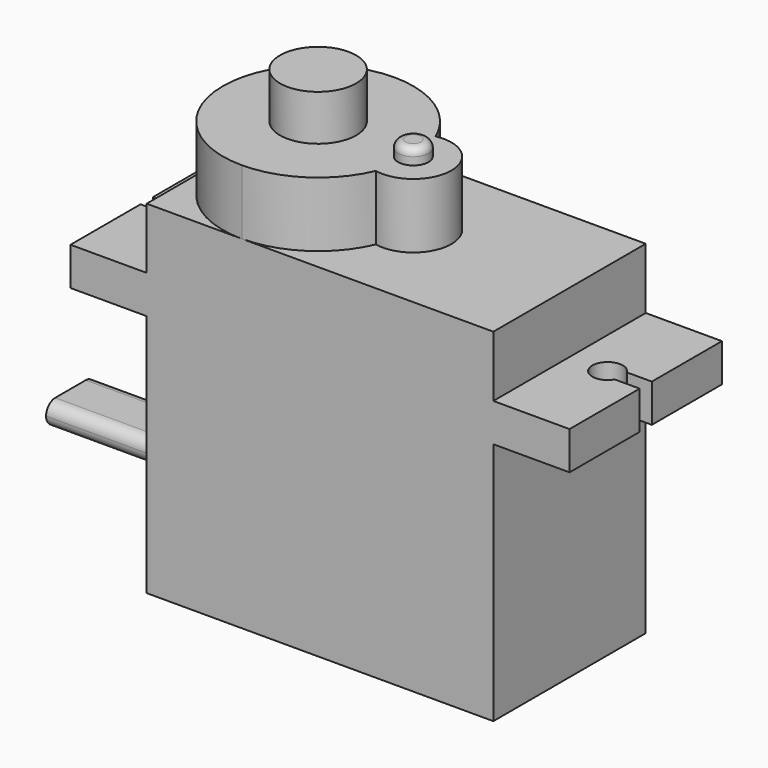
from build123d import *

# Parameters (mm, degrees)
F0_W      = 22.75
F0_H      = 12.5
F1_DEPTH  = 22.5
F3_W      = 5
F3_H      = 12.5
F4_DEPTH  = 2.5
F6_DEPTH  = 2.5
F8_DEPTH  = 4.25
F9_R      = 1
F10_DEPTH = 1
F11_R     = 2.5
F12_DEPTH = 3
F14_DEPTH = 10
F15_R     = 0.5


with BuildPart() as f1:
    # F0 (on Top) → F1 (new body)
    with BuildSketch(Plane.XY):
        Rectangle(F0_W, F0_H)
    extrude(amount=F1_DEPTH)

    # F3 (on offset) → F4 (join)
    with BuildSketch(Plane.XY.offset(16)):
        with Locations((-13.875, 0)):
            Rectangle(F3_W, F3_H)
        with Locations((13.875, 0)):
            Rectangle(F3_W, F3_H)
    extrude(amount=F4_DEPTH)

    # F5 (on face) → F6 (cut, through all)
    with BuildSketch(Plane.XY.offset(18.5)):
        with BuildLine():
            Line((-16.375, -0.5), (-14.741025, -0.5))
            ThreePointArc((-14.741025, -0.5), (-12.875, 0), (-14.741025, 0.5))
            Line((-14.741025, 0.5), (-16.375, 0.5))
            Line((-16.375, 0.5), (-16.375, -0.5))
        make_face()
        with BuildLine():
            Line((16.375, 0.5), (14.741025, 0.5))
            ThreePointArc((14.741025, 0.5), (12.875, 0), (14.741025, -0.5))
            Line((14.741025, -0.5), (16.375, -0.5))
            Line((16.375, -0.5), (16.375, 0.5))
        make_face()
    extrude(amount=-F6_DEPTH, mode=Mode.SUBTRACT)

    # F7 (on face) → F8 (join)
    with BuildSketch(Plane.XY.offset(22.5)):
        with BuildLine():
            ThreePointArc((0.625, -2.44949), (3.625, 0), (0.625, 2.44949))
            ThreePointArc((0.625, 2.44949), (-1.678756, 5.21401), (-5.125, 6.25))
            ThreePointArc((-5.125, 6.25), (-9.544417, 4.419417), (-11.375, 0))
            ThreePointArc((-11.375, 0), (-9.544417, -4.419417), (-5.125, -6.25))
            ThreePointArc((-5.125, -6.25), (-1.678756, -5.21401), (0.625, -2.44949))
        make_face()
    extrude(amount=F8_DEPTH)

    # F9 (on face) → F10 (join)
    with BuildSketch(Plane.XY.offset(26.75)):
        with Locations((1.125, 0)):
            Circle(F9_R)
    extrude(amount=F10_DEPTH)

    # F11 (on face) → F12 (join)
    with BuildSketch(Plane.XY.offset(26.75)):
        with Locations((-5.125, 0)):
            Circle(F11_R)
    extrude(amount=F12_DEPTH)

    # F13 (on face) → F14 (join)
    with BuildSketch(Plane(origin=(-11.375, 0, 0), x_dir=(0, -1, 0), z_dir=(-1, 0, 0))):
        with BuildLine():
            Line((1.25, 6), (-1.25, 6))
            ThreePointArc((-1.25, 6), (-1.78033, 5.78033), (-2, 5.25))
            ThreePointArc((-2, 5.25), (-1.78033, 4.71967), (-1.25, 4.5))
            Line((-1.25, 4.5), (1.25, 4.5))
            ThreePointArc((1.25, 4.5), (1.78033, 4.71967), (2, 5.25))
            ThreePointArc((2, 5.25), (1.78033, 5.78033), (1.25, 6))
        make_face()
    extrude(amount=F14_DEPTH)

    # F15
    f15_edges = [f1.edges().sort_by_distance(p)[0] for p in [
        (0.125, 0, 27.75),
    ]]
    fillet(f15_edges, radius=F15_R)


solid = f1.part
